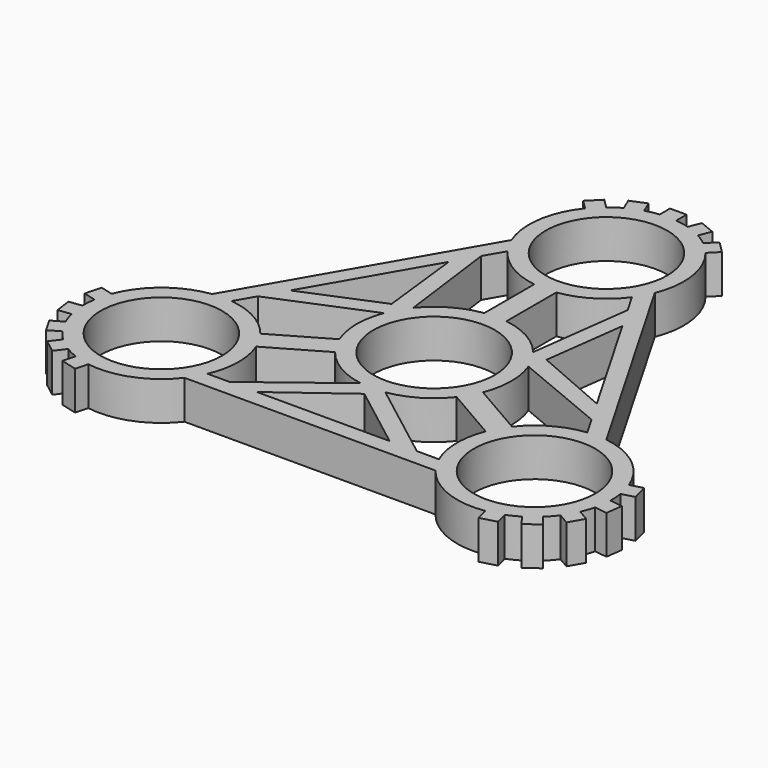
from build123d import *

# Parameters (mm, degrees)
F0_R     = 11
F1_DEPTH = 7


with BuildPart() as f1:
    # F0 (on Top) → F1 (new body)
    with BuildSketch(Plane.XY):
        with BuildLine():
            Line((-12.551145, 49.429825), (-10.90317, 47.78185))
            ThreePointArc((-10.90317, 47.78185), (-13.851657, 41.032634), (-12.966522, 33.72086))
            Line((-12.966522, 33.72086), (-35.686383, -5.631093))
            ThreePointArc((-35.686383, -5.631093), (-42.461132, -8.52043), (-46.831881, -14.448503))
            Line((-46.831881, -14.448503), (-49.083057, -13.845302))
            Line((-49.083057, -13.845302), (-49.859514, -16.743079))
            Line((-49.859514, -16.743079), (-47.608338, -17.34628))
            ThreePointArc((-47.608338, -17.34628), (-47.745016, -18.584356), (-47.771108, -19.82968))
            Line((-47.771108, -19.82968), (-50.081759, -20.133883))
            Line((-50.081759, -20.133883), (-49.69018, -23.108218))
            Line((-49.69018, -23.108218), (-47.37953, -22.804015))
            ThreePointArc((-47.37953, -22.804015), (-47.032013, -24.000153), (-46.579554, -25.160667))
            Line((-46.579554, -25.160667), (-48.597904, -26.325962))
            Line((-48.597904, -26.325962), (-47.097904, -28.924038))
            Line((-47.097904, -28.924038), (-45.079554, -27.758744))
            ThreePointArc((-45.079554, -27.758744), (-44.300748, -28.730841), (-43.438621, -29.629869))
            Line((-43.438621, -29.629869), (-44.857394, -31.47885))
            Line((-44.857394, -31.47885), (-42.477334, -33.305134))
            Line((-42.477334, -33.305134), (-41.058561, -31.456153))
            ThreePointArc((-41.058561, -31.456153), (-39.967032, -32.056218), (-38.826488, -32.55689))
            Line((-38.826488, -32.55689), (-39.429689, -34.808066))
            Line((-39.429689, -34.808066), (-36.531911, -35.584523))
            Line((-36.531911, -35.584523), (-35.928711, -33.333347))
            ThreePointArc((-35.928711, -33.333347), (-28.609475, -32.512204), (-22.719861, -28.089767))
            Line((-22.719861, -28.089767), (22.719861, -28.089767))
            ThreePointArc((22.719861, -28.089767), (28.609475, -32.512204), (35.928711, -33.333347))
            Line((35.928711, -33.333347), (36.531911, -35.584523))
            Line((36.531911, -35.584523), (39.429689, -34.808066))
            Line((39.429689, -34.808066), (38.826488, -32.55689))
            ThreePointArc((38.826488, -32.55689), (39.967032, -32.056218), (41.058561, -31.456153))
            Line((41.058561, -31.456153), (42.477334, -33.305134))
            Line((42.477334, -33.305134), (44.857394, -31.47885))
            Line((44.857394, -31.47885), (43.438621, -29.629869))
            ThreePointArc((43.438621, -29.629869), (44.300748, -28.730841), (45.079554, -27.758744))
            Line((45.079554, -27.758744), (47.097904, -28.924038))
            Line((47.097904, -28.924038), (48.597904, -26.325962))
            Line((48.597904, -26.325962), (46.579554, -25.160667))
            ThreePointArc((46.579554, -25.160667), (47.032013, -24.000153), (47.37953, -22.804015))
            Line((47.37953, -22.804015), (49.69018, -23.108218))
            Line((49.69018, -23.108218), (50.081759, -20.133883))
            Line((50.081759, -20.133883), (47.771108, -19.82968))
            ThreePointArc((47.771108, -19.82968), (47.745016, -18.584356), (47.608338, -17.34628))
            Line((47.608338, -17.34628), (49.859514, -16.743079))
            Line((49.859514, -16.743079), (49.083057, -13.845302))
            Line((49.083057, -13.845302), (46.831881, -14.448503))
            ThreePointArc((46.831881, -14.448503), (42.461132, -8.52043), (35.686383, -5.631093))
            Line((35.686383, -5.631093), (12.966522, 33.72086))
            ThreePointArc((12.966522, 33.72086), (13.851657, 41.032634), (10.90317, 47.78185))
            Line((10.90317, 47.78185), (12.551145, 49.429825))
            Line((12.551145, 49.429825), (10.429825, 51.551145))
            Line((10.429825, 51.551145), (8.78185, 49.90317))
            ThreePointArc((8.78185, 49.90317), (7.777983, 50.640575), (6.712547, 51.285834))
            Line((6.712547, 51.285834), (7.604425, 53.439017))
            Line((7.604425, 53.439017), (4.832786, 54.587068))
            Line((4.832786, 54.587068), (3.940909, 52.433884))
            ThreePointArc((3.940909, 52.433884), (2.731265, 52.730994), (1.5, 52.919411))
            Line((1.5, 52.919411), (1.5, 55.25))
            Line((1.5, 55.25), (-1.5, 55.25))
            Line((-1.5, 55.25), (-1.5, 52.919411))
            ThreePointArc((-1.5, 52.919411), (-2.731265, 52.730994), (-3.940909, 52.433884))
            Line((-3.940909, 52.433884), (-4.832786, 54.587068))
            Line((-4.832786, 54.587068), (-7.604425, 53.439017))
            Line((-7.604425, 53.439017), (-6.712547, 51.285834))
            ThreePointArc((-6.712547, 51.285834), (-7.777983, 50.640575), (-8.78185, 49.90317))
            Line((-8.78185, 49.90317), (-10.429825, 51.551145))
            Line((-10.429825, 51.551145), (-12.551145, 49.429825))
        make_face()
        with Locations((-33.774991, -19.5)):
            Circle(F0_R, mode=Mode.SUBTRACT)
        Polygon((-12.018009, -25.089767), (0.191454, -16.03568), (12.018009, -25.089767), align=None, mode=Mode.SUBTRACT)
        with BuildLine():
            Line((-20.774991, -14.303848), (-11, -8.660254))
            ThreePointArc((-11, -8.660254), (-7.101984, -12.0649), (-2.233383, -13.820709))
            Line((-2.233383, -13.820709), (-16.953159, -25.089767))
            Line((-16.953159, -25.089767), (-20.939318, -25.089767))
            ThreePointArc((-20.939318, -25.089767), (-19.776615, -19.71327), (-20.774991, -14.303848))
        make_face(mode=Mode.SUBTRACT)
        with BuildLine():
            ThreePointArc((-13.085777, 4.976188), (-13.999502, -0.118049), (-13, -5.196152))
            Line((-13, -5.196152), (-22.774991, -10.839746))
            ThreePointArc((-22.774991, -10.839746), (-26.9605, -7.270416), (-32.198035, -5.589097))
            Line((-32.198035, -5.589097), (-30.204955, -2.136982))
            Line((-30.204955, -2.136982), (-13.085777, 4.976188))
        make_face(mode=Mode.SUBTRACT)
        with BuildLine():
            ThreePointArc((2.233383, -13.820709), (7.101984, -12.0649), (11, -8.660254))
            Line((11, -8.660254), (20.774991, -14.303848))
            ThreePointArc((20.774991, -14.303848), (19.776615, -19.71327), (20.939318, -25.089767))
            Line((20.939318, -25.089767), (16.953159, -25.089767))
            Line((16.953159, -25.089767), (2.233383, -13.820709))
        make_face(mode=Mode.SUBTRACT)
        with Locations((33.774991, -19.5)):
            Circle(F0_R, mode=Mode.SUBTRACT)
        with BuildLine():
            Line((22.774991, -10.839746), (13, -5.196152))
            ThreePointArc((13, -5.196152), (13.999502, -0.118049), (13.085777, 4.976188))
            Line((13.085777, 4.976188), (30.204955, -2.136982))
            Line((30.204955, -2.136982), (32.198035, -5.589097))
            ThreePointArc((32.198035, -5.589097), (26.9605, -7.270416), (22.774991, -10.839746))
        make_face(mode=Mode.SUBTRACT)
        Circle(F0_R, mode=Mode.SUBTRACT)
        Polygon((-15.719371, 22.952785), (-13.983033, 7.852036), (-27.73738, 2.136982), align=None, mode=Mode.SUBTRACT)
        with BuildLine():
            Line((-2, 25.143594), (-2, 13.856406))
            ThreePointArc((-2, 13.856406), (-6.897518, 12.182949), (-10.852394, 8.844521))
            Line((-10.852394, 8.844521), (-13.251797, 27.22675))
            Line((-13.251797, 27.22675), (-11.258717, 30.678865))
            ThreePointArc((-11.258717, 30.678865), (-7.183885, 26.983686), (-2, 25.143594))
        make_face(mode=Mode.SUBTRACT)
        with BuildLine():
            ThreePointArc((10.852394, 8.844521), (6.897518, 12.182949), (2, 13.856406))
            Line((2, 13.856406), (2, 25.143594))
            ThreePointArc((2, 25.143594), (7.183885, 26.983686), (11.258717, 30.678865))
            Line((11.258717, 30.678865), (13.251797, 27.22675))
            Line((13.251797, 27.22675), (10.852394, 8.844521))
        make_face(mode=Mode.SUBTRACT)
        Polygon((27.73738, 2.136982), (13.791579, 8.183644), (15.719371, 22.952785), align=None, mode=Mode.SUBTRACT)
        with Locations((0, 39)):
            Circle(F0_R, mode=Mode.SUBTRACT)
    extrude(amount=F1_DEPTH)


solid = f1.part
